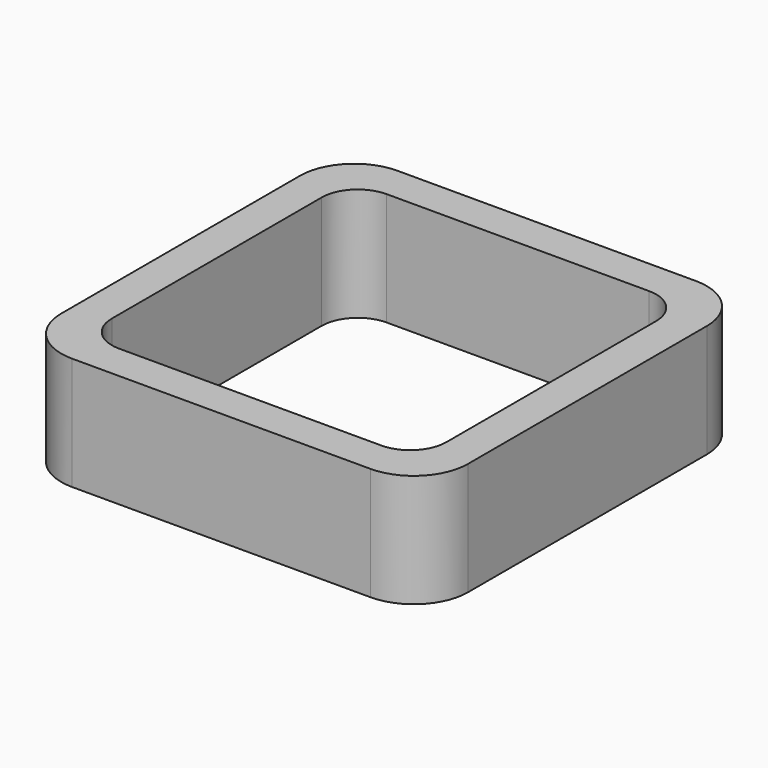
from build123d import *

# Parameters (mm, degrees)
EXTRUDE_DEPTH = 50


with BuildPart() as part:
    # Sketch → Extrude (new body)
    with BuildSketch(Plane.XY):
        with BuildLine():
            Line((-66, 90), (66, 90))
            ThreePointArc((90, 66), (82.970563, 82.970563), (66, 90))
            Line((90, 66), (90, -66))
            ThreePointArc((66, -90), (82.970563, -82.970563), (90, -66))
            Line((66, -90), (-66, -90))
            ThreePointArc((-90, -66), (-82.970563, -82.970563), (-66, -90))
            Line((-90, -66), (-90, 66))
            ThreePointArc((-66, 90), (-82.970563, 82.970563), (-90, 66))
        make_face()
        with BuildLine():
            Line((-58, 74), (58, 74))
            ThreePointArc((74, 58), (69.313708, 69.313708), (58, 74))
            Line((74, 58), (74, -58))
            ThreePointArc((58, -74), (69.313708, -69.313708), (74, -58))
            Line((58, -74), (-58, -74))
            ThreePointArc((-74, -58), (-69.313708, -69.313708), (-58, -74))
            Line((-74, -58), (-74, 58))
            ThreePointArc((-58, 74), (-69.313708, 69.313708), (-74, 58))
        make_face(mode=Mode.SUBTRACT)
    extrude(amount=EXTRUDE_DEPTH)


solid = part.part
